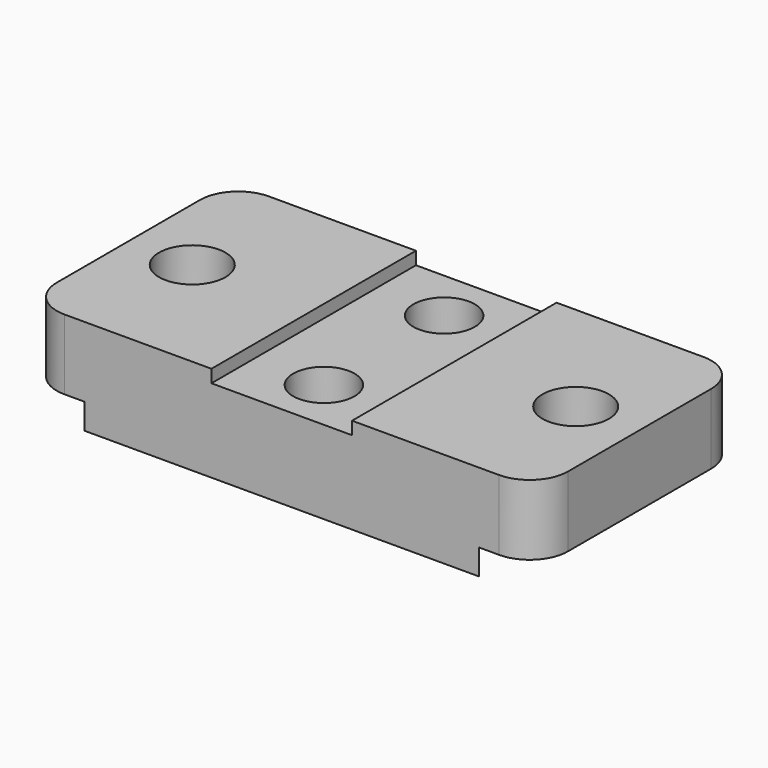
from build123d import *

# Parameters (mm, degrees)
SKETCH_W        = 40
SKETCH_H        = 20
SKETCH_R        = 2.6
PAD_DEPTH       = 7.5
POCKET001_DEPTH = 2
SKETCH003_W     = 11
SKETCH003_H     = 1
POCKET_DEPTH    = 20.001
SKETCH004_R     = 2.4
POCKET002_DEPTH = 7.501
FILLET_R        = 3


with BuildPart() as part:
    # Sketch → Pad (new body)
    with BuildSketch(Plane.XY):
        Rectangle(SKETCH_W, SKETCH_H)
        with Locations((-15, 0)):
            Circle(SKETCH_R, mode=Mode.SUBTRACT)
        with Locations((15, 0)):
            Circle(SKETCH_R, mode=Mode.SUBTRACT)
    extrude(amount=PAD_DEPTH)

    # Sketch002 → Pocket001 (cut)
    with BuildSketch(Plane(origin=(0, 0, 0), x_dir=(1, 0, 0), z_dir=(0, 0, -1))):
        Polygon((20.661249, -13.364706), (20.661249, 13.364706), (6.159635, 4.022958), (6.159635, -4.022958), align=None)
    pocket001 = extrude(amount=-POCKET001_DEPTH, mode=Mode.SUBTRACT)

    # Mirrored: Pocket001 across Sketch002 V_Axis
    add(pocket001.mirror(Plane(origin=(0, 0, 0), x_dir=(0, 0, -1), z_dir=(1, 0, 0))), mode=Mode.SUBTRACT)

    # Sketch003 (on DatumPlane) → Pocket (cut, through all)
    with BuildSketch(Plane(origin=(0, 10, 0), x_dir=(-1, 0, 0), z_dir=(0, 1, 0))):
        with Locations((0, 7)):
            Rectangle(SKETCH003_W, SKETCH003_H)
    extrude(amount=-POCKET_DEPTH, mode=Mode.SUBTRACT)

    # Sketch004 (on DatumPlane) → Pocket002 (cut, through all)
    with BuildSketch(Plane(origin=(0, 0, 0), x_dir=(1, 0, 0), z_dir=(0, 0, -1))):
        with Locations((0, 5.879738)):
            Circle(SKETCH004_R)
        with Locations((0, -5.879738)):
            Circle(SKETCH004_R)
    extrude(amount=-POCKET002_DEPTH, mode=Mode.SUBTRACT)

    # Fillet
    fillet_edges = [part.edges().sort_by_distance(p)[0] for p in [
        (-6.159635, -4.022958, 1),
        (-6.159635, 4.022958, 1),
        (6.159635, -4.022958, 1),
        (6.159635, 4.022958, 1),
        (20, 10, 4.75),
        (20, -10, 4.75),
        (-20, 10, 4.75),
        (-20, -10, 4.75),
    ]]
    fillet(fillet_edges, radius=FILLET_R)


solid = part.part
